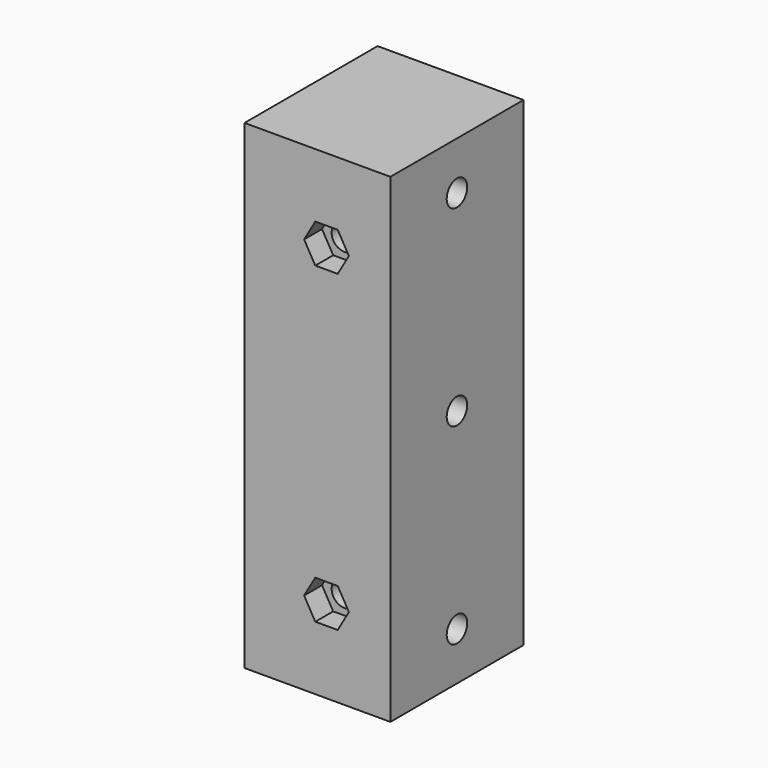
from build123d import *

# Parameters (mm, degrees)
SKETCH008_W       = 45.6
SKETCH008_H       = 150
PAD004_DEPTH      = 42
PAD004_DEPTH_BACK = 10
SKETCH009_R       = 4
POCKET003_DEPTH   = 52.001
POCKET004_DEPTH   = 7
POCKET005_DEPTH   = 7
SKETCH011_R       = 4
POCKET007_DEPTH   = 45.601


with BuildPart() as part:
    # Sketch008 → Pad004 (new body, two sides)
    with BuildSketch(Plane(origin=(0, 0, 0), x_dir=(-1, 0, 0), z_dir=(0, 1, 0))) as pad004_sk:
        with Locations((214, 75)):
            Rectangle(SKETCH008_W, SKETCH008_H)
    extrude(amount=PAD004_DEPTH)
    extrude(pad004_sk.sketch, amount=-PAD004_DEPTH_BACK)

    # Sketch009 (on Face6 of Pad004) → Pocket003 (cut, through all)
    with BuildSketch(Plane(origin=(0, 42, 0), x_dir=(1, 0, 0), z_dir=(0, 1, 0))):
        with Locations((-211.172606, -26)):
            Circle(SKETCH009_R)
        with Locations((-211.172606, -124)):
            Circle(SKETCH009_R)
    extrude(amount=-POCKET003_DEPTH, mode=Mode.SUBTRACT)

    # Sketch010 (on Face4 of Pocket003) → Pocket004 (cut)
    with BuildSketch(Plane.XZ.offset(10)):
        Polygon((-207.672606, 117.937822), (-204.172606, 124), (-207.672606, 130.062178), (-214.672606, 130.062178), (-218.172606, 124), (-214.672606, 117.937822), align=None)
        Polygon((-207.672606, 19.937822), (-204.172606, 26), (-207.672606, 32.062178), (-214.672606, 32.062178), (-218.172606, 26), (-214.672606, 19.937822), align=None)
    extrude(amount=-POCKET004_DEPTH, mode=Mode.SUBTRACT)

    # Sketch010 (on Face4 of Pocket003) → Pocket005 (cut)
    with BuildSketch(Plane.XZ.offset(10)):
        Polygon((-207.672606, 117.937822), (-204.172606, 124), (-207.672606, 130.062178), (-214.672606, 130.062178), (-218.172606, 124), (-214.672606, 117.937822), align=None)
        Polygon((-207.672606, 19.937822), (-204.172606, 26), (-207.672606, 32.062178), (-214.672606, 32.062178), (-218.172606, 26), (-214.672606, 19.937822), align=None)
    extrude(amount=-POCKET005_DEPTH, mode=Mode.SUBTRACT)

    # Sketch011 → Pocket007 (cut, through all)
    with BuildSketch(Plane(origin=(-191.2, 0, 0), x_dir=(0, -1, 0), z_dir=(-1, 0, 0))):
        with Locations((-16, 135)):
            Circle(SKETCH011_R)
        with Locations((-16, 75)):
            Circle(SKETCH011_R)
        with Locations((-16, 15)):
            Circle(SKETCH011_R)
    extrude(amount=POCKET007_DEPTH, mode=Mode.SUBTRACT)


solid = part.part
